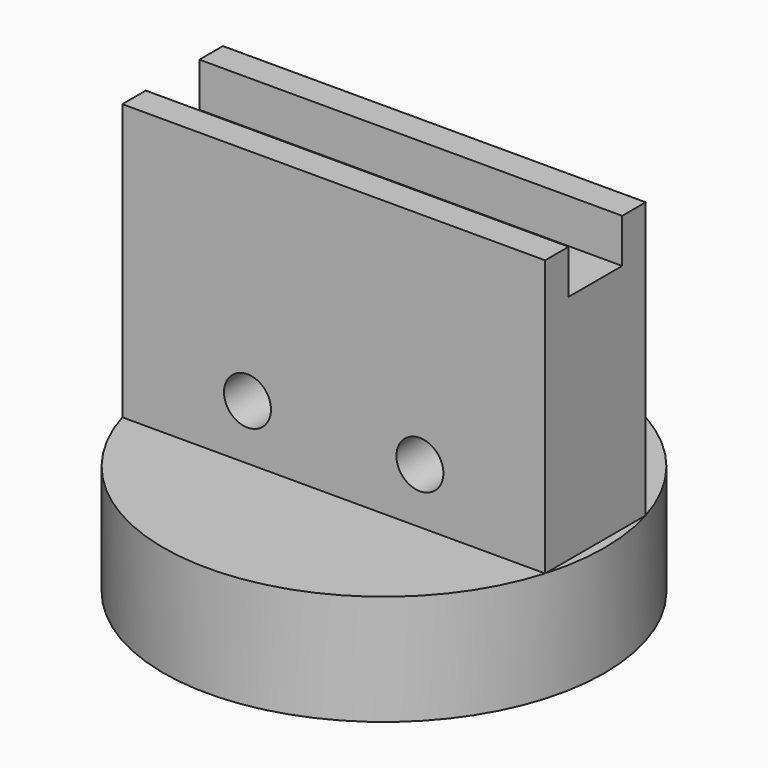
from build123d import *

# Parameters (mm, degrees)
F0_R     = 40
F1_DEPTH = 20
F2_W     = 76.681012
F2_H     = 22.804
F3_DEPTH = 50
F4_W     = 76.681012
F4_H     = 12.157896
F5_DEPTH = 8
F6_R     = 4.262414
F7_DEPTH = 51.403


with BuildPart() as f1:
    # F0 (on Top) → F1 (new body)
    with BuildSketch(Plane.XY):
        Circle(F0_R)
    extrude(amount=F1_DEPTH)

    # F2 (on face) → F3 (join)
    with BuildSketch(Plane.XY.offset(20)):
        Rectangle(F2_W, F2_H)
    extrude(amount=F3_DEPTH)

    # F4 (on face) → F5 (cut)
    with BuildSketch(Plane.XY.offset(70)):
        Rectangle(F4_W, F4_H)
    extrude(amount=-F5_DEPTH, mode=Mode.SUBTRACT)

    # F6 (on face) → F7 (cut, through all)
    with BuildSketch(Plane(origin=(0, 11.402, 0), x_dir=(-1, 0, 0), z_dir=(0, 1, 0))):
        with Locations((-15.634964, 30)):
            Circle(F6_R)
        with Locations((15.634964, 30)):
            Circle(F6_R)
    extrude(amount=-F7_DEPTH, mode=Mode.SUBTRACT)


solid = f1.part
